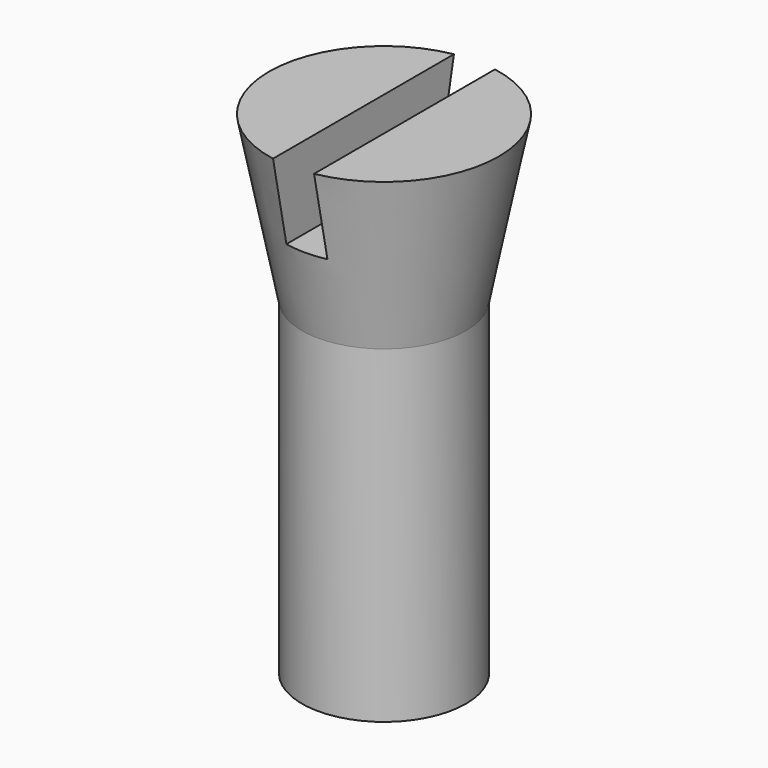
from build123d import *

# Parameters (mm, degrees)
BOX_W          = 1
BOX_H          = 10
BOX_DEPTH      = 2
CYLINDER_R     = 2
CYLINDER_DEPTH = 10


with BuildPart() as cubo:
    # Box → Box (new body)
    with BuildSketch(Plane(origin=(-0.5, -5, 10), x_dir=(1, 0, 0), z_dir=(0, 0, 1))):
        with Locations((0.5, 5)):
            Rectangle(BOX_W, BOX_H)
    extrude(amount=BOX_DEPTH)


with BuildPart() as cut:
    # Cone → Cone (revolve)
    with BuildSketch(Plane(origin=(0, 0, 8), x_dir=(1, 0, 0), z_dir=(0, -1, 0))):
        Polygon((0, 0), (2, 0), (2.8, 4), (0, 4), align=None)
    revolve(axis=Axis((0, 0, 8), (0, 0, 1)))

    # Cut: cut Cubo
    add(cubo.part, mode=Mode.SUBTRACT)


with BuildPart() as fusion:
    # Cylinder → Cylinder (new body)
    with BuildSketch(Plane.XY):
        Circle(CYLINDER_R)
    extrude(amount=CYLINDER_DEPTH)

    # Fusion: union Cut
    add(cut.part)


solid = fusion.part
